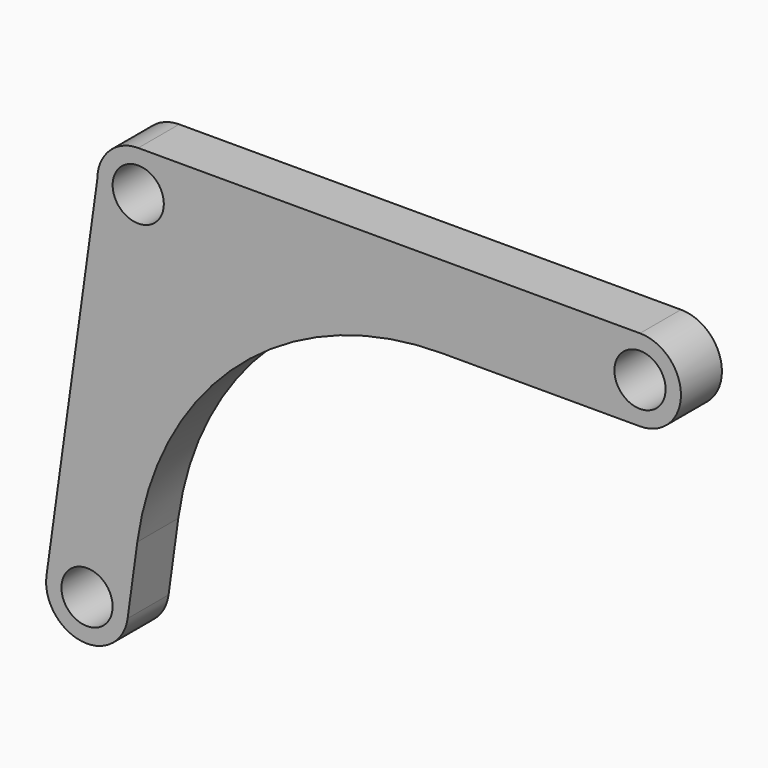
from build123d import *

# Parameters (mm, degrees)
F0_R     = 2.5
F1_DEPTH = 5


with BuildPart() as f1:
    # F0 (on Front) → F1 (new body)
    with BuildSketch(Plane.XZ):
        with BuildLine():
            Line((49, 4), (0, 4))
            ThreePointArc((0, 4), (-2.828427, 2.828427), (-4, 0))
            Line((-4, 0), (-8.961892, -35.689175))
            ThreePointArc((-8.961892, -35.689175), (-5.548761, -40.202179), (-1.037536, -36.786698))
            Line((-1.037536, -36.786698), (-0.087352, -29.899768))
            Line((-0.087352, -29.899768), (3.486015, -4))
            Line((3.486015, -4), (29.631128, -4))
            Line((29.631128, -4), (49, -4))
            ThreePointArc((49, -4), (53, 0), (49, 4))
        make_face()
        with Locations((-5, -36.24)):
            Circle(F0_R, mode=Mode.SUBTRACT)
        Circle(F0_R, mode=Mode.SUBTRACT)
        with Locations((49, 0)):
            Circle(F0_R, mode=Mode.SUBTRACT)
        with BuildLine():
            ThreePointArc((-0.087352, -29.899768), (9.920813, -11.383557), (29.631128, -4))
            Line((29.631128, -4), (3.486015, -4))
            Line((3.486015, -4), (-0.087352, -29.899768))
        make_face()
    extrude(amount=F1_DEPTH)


solid = f1.part
